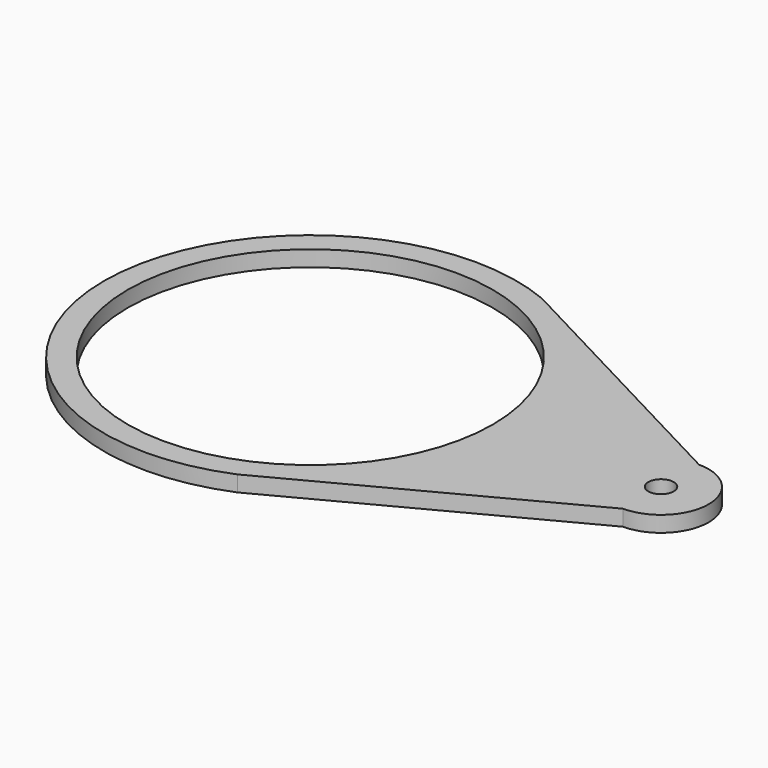
from build123d import *

# Parameters (mm, degrees)
SKETCH_R   = 57.5
SKETCH_R_2 = 4
PAD_DEPTH  = 5


with BuildPart() as part:
    # Sketch → Pad (new body)
    with BuildSketch(Plane.XY):
        with BuildLine():
            ThreePointArc((25, 60), (-65, 0), (25, -60))
            Line((25, -60), (110.499997, -15))
            ThreePointArc((110.499997, -15), (125.5, 0), (110.499997, 15))
            Line((25, 60), (110.499997, 15))
        make_face()
        Circle(SKETCH_R, mode=Mode.SUBTRACT)
        with Locations((110.5, 0)):
            Circle(SKETCH_R_2, mode=Mode.SUBTRACT)
    extrude(amount=PAD_DEPTH)


solid = part.part
